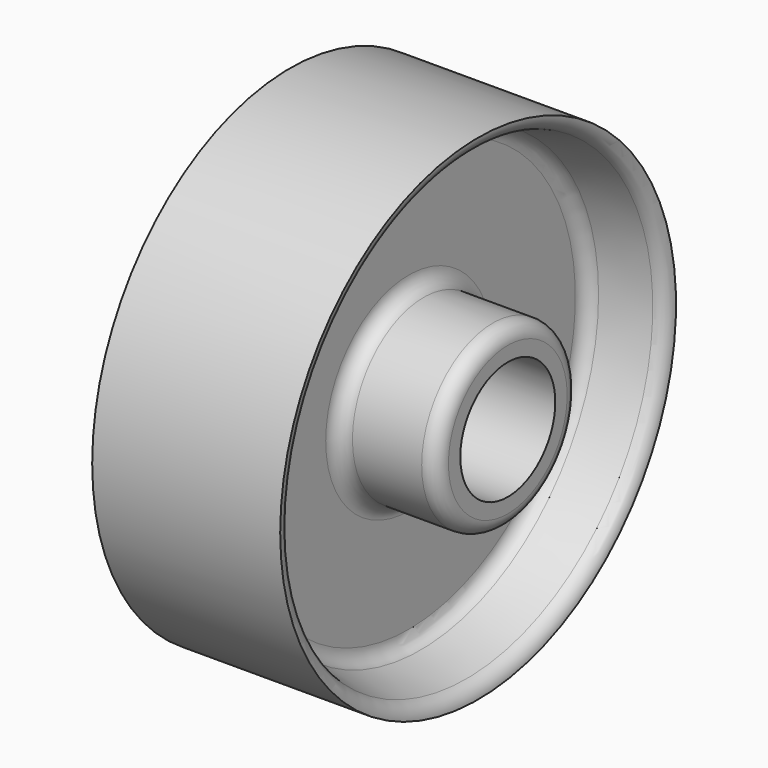
from build123d import *


with BuildPart() as f1:
    # F0 (on Top) → F1 (revolve)
    with BuildSketch(Plane.XY):
        with BuildLine():
            Line((-22, -18), (-8, -18))
            ThreePointArc((-8, -18), (-5.87868, -18.87868), (-5, -21))
            Line((-5, -21), (-5, -42.071715))
            ThreePointArc((-5, -42.071715), (-5.659476, -43.948401), (-7.347966, -45))
            Line((-7.347966, -45), (-16.652034, -47.071715))
            ThreePointArc((-16.652034, -47.071715), (-18.340524, -48.123314), (-19, -50))
            Line((-19, -50), (19, -50))
            ThreePointArc((19, -50), (18.340524, -48.123314), (16.652034, -47.071715))
            Line((16.652034, -47.071715), (7.347966, -45))
            ThreePointArc((7.347966, -45), (5.659476, -43.948401), (5, -42.071715))
            Line((5, -42.071715), (5, -21))
            ThreePointArc((5, -21), (5.87868, -18.87868), (8, -18))
            Line((8, -18), (22, -18))
            ThreePointArc((22, -18), (24.12132, -17.12132), (25, -15))
            Line((25, -15), (25, -12))
            Line((25, -12), (-25, -12))
            Line((-25, -12), (-25, -15))
            ThreePointArc((-25, -15), (-24.12132, -17.12132), (-22, -18))
        make_face()
    revolve(axis=Axis((-16.838053, 0, 0), (-1, 0, 0)))


solid = f1.part
